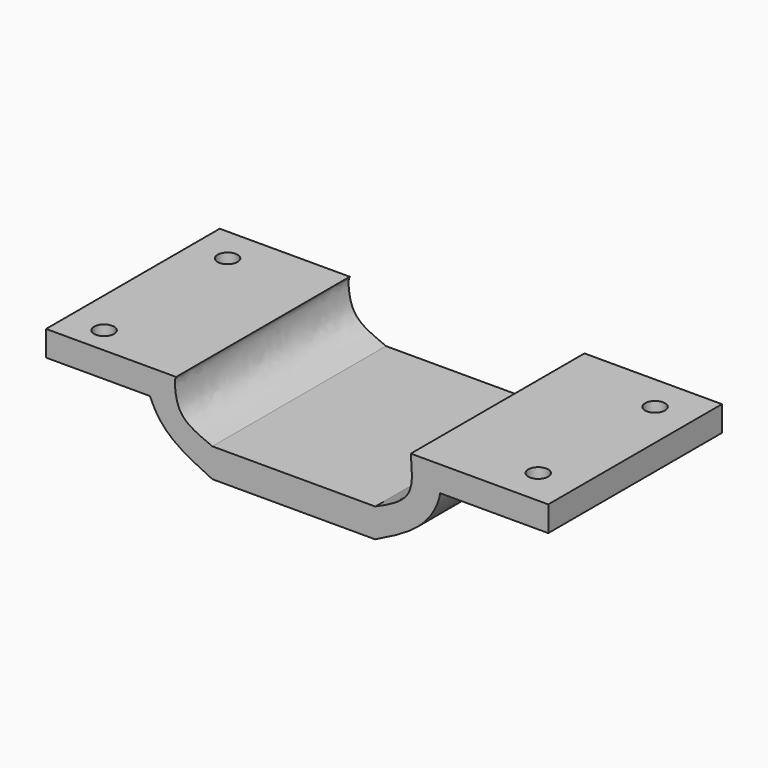
from build123d import *

# Parameters (mm, degrees)
F1_DEPTH = 60
F3_D     = 5.5
F3_DEPTH = 8.1864443024


with BuildPart() as f1:
    # F0 (on Front) → F1 (new body)
    with BuildSketch(Plane.XZ):
        with BuildLine():
            add(Edge.make_bspline(
                [(-15.583907237, -15.8838359451), (-20.5824892786, -13.477111449), (-28.0537829979, -10.0564542715), (-31.9500121866, -3.4198011879), (-32.8167130693, -1.257680403)],
                knots=[0, 0, 0, 0, 0.4219290451, 0.6690640109, 0.6690640109, 0.6690640109, 0.6690640109], degree=3))
            Line((-15.583907237, -15.8838359451), (29.416092763, -15.8838359451))
            add(Edge.make_bspline(
                [(29.416092763, -15.8838359451), (34.1530946184, -13.6030574546), (43.1088029683, -9.1464536212), (46.8810559285, -1.9235678582), (47.416092763, 1.1854442024)],
                knots=[0, 0, 0, 0, 0.3998491278, 0.7291996551, 0.7291996551, 0.7291996551, 0.7291996551], degree=3))
            add(Edge.make_bspline(
                [(47.416092763, 1.1854442024), (47.8560135991, 3.7417526601), (47.5058024929, 6.194436423), (47.2767397559, 8.1854442024)],
                knots=[0.7291996551, 0.7291996551, 0.7291996551, 0.7291996551, 1, 1, 1, 1], degree=3))
            Line((47.2767397559, 8.1854442024), (39.2767397559, 8.1854442024))
            add(Edge.make_bspline(
                [(39.2767397559, 8.1854442024), (39.3619593635, 7.5862095484), (39.492456624, 4.9859560823), (40.0435719709, -3.1024520767), (33.0034534151, -6.3452761482), (29.416092763, -7.8838359451)],
                knots=[0, 0, 0, 0, 0.2232213361, 0.5705276676, 1, 1, 1, 1], degree=3))
            Line((29.416092763, -7.8838359451), (-15.583907237, -7.8838359451))
            add(Edge.make_bspline(
                [(-25.583907237, 5.742319597), (-25.6295728817, 5.4472272167), (-26.0881012762, 5.5007178793), (-25.799795578, -3.9705698), (-19.6514046239, -6.1169119214), (-15.583907237, -7.8838359451)],
                knots=[0, 0, 0, 0, 0.1097832683, 0.5084327524, 1, 1, 1, 1], degree=3))
            Line((-25.583907237, 5.742319597), (-33.583907237, 5.742319597))
            add(Edge.make_bspline(
                [(-32.8167130693, -1.257680403), (-33.1688240586, -0.3792845182), (-34.0179781462, 2.3586099694), (-33.7789093205, 4.0473661957), (-33.583907237, 5.742319597)],
                knots=[0.6690640109, 0.6690640109, 0.6690640109, 0.6690640109, 0.7694665132, 1, 1, 1, 1], degree=3))
        make_face()
        with BuildLine():
            Line((-61.5352420683, -1.257680403), (-32.8167130693, -1.257680403))
            add(Edge.make_bspline(
                [(-32.8167130693, -1.257680403), (-33.1688240586, -0.3792845182), (-34.0179781462, 2.3586099694), (-33.7789093205, 4.0473661957), (-33.583907237, 5.742319597)],
                knots=[0.6690640109, 0.6690640109, 0.6690640109, 0.6690640109, 0.7694665132, 1, 1, 1, 1], degree=3))
            Line((-33.583907237, 5.742319597), (-61.5352420683, 5.742319597))
            Line((-61.5352420683, 5.742319597), (-61.5352420683, -1.257680403))
        make_face()
        with BuildLine():
            add(Edge.make_bspline(
                [(47.416092763, 1.1854442024), (47.8560135991, 3.7417526601), (47.5058024929, 6.194436423), (47.2767397559, 8.1854442024)],
                knots=[0.7291996551, 0.7291996551, 0.7291996551, 0.7291996551, 1, 1, 1, 1], degree=3))
            Line((47.416092763, 1.1854442024), (77.2767397559, 1.1854442024))
            Line((77.2767397559, 1.1854442024), (77.2767397559, 8.1854442024))
            Line((77.2767397559, 8.1854442024), (47.2767397559, 8.1854442024))
        make_face()
    extrude(amount=F1_DEPTH)

    # F3 (through all, one way)
    with BuildSketch(Plane(origin=(0, 0, 0), x_dir=(1, 0, 0), z_dir=(0, 0, -1))):
        with Locations((66.4336457849, 49.9169917405), (66.7956769466, 10), (-51.5461543202, 9.7749773413), (-51.3651387393, 52.6762679219)):
            Circle(F3_D / 2)
    extrude(amount=-F3_DEPTH, mode=Mode.SUBTRACT)


solid = f1.part
